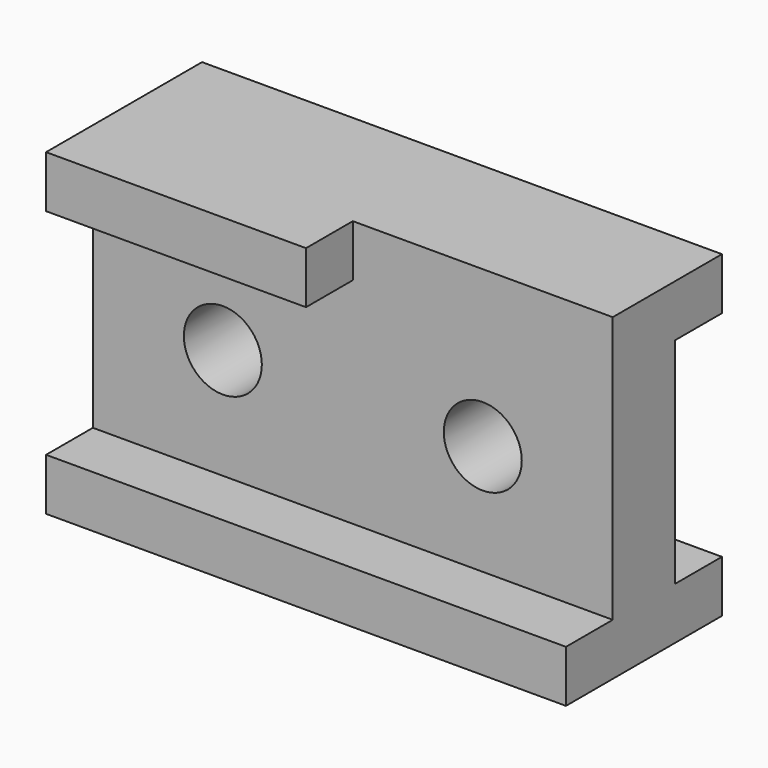
from build123d import *

# Parameters (mm, degrees)
F1_DEPTH = 254
F2_R     = 19.05
F3_DEPTH = 101.346
F2_W     = 127
F2_H     = 25.4
F4_DEPTH = 28.575


with BuildPart() as f1:
    # F0 (on Right) → F1 (new body)
    with BuildSketch(Plane.YZ):
        Polygon((0, 25.4), (0, 0), (95.25, 0), (95.25, 25.4), (66.675, 25.4), (66.675, 130.175), (95.25, 130.175), (95.25, 155.575), (28.575, 155.575), (28.575, 25.4), align=None)
    extrude(amount=F1_DEPTH)

    # F2 (on face) → F3 (cut)
    with BuildSketch(Plane.XZ.offset(-28.575)):
        with Locations((63.5, 79.375)):
            Circle(F2_R)
        with Locations((190.5, 79.375)):
            Circle(F2_R)
    extrude(amount=-F3_DEPTH, mode=Mode.SUBTRACT)

    # F2 (on face) → F4 (join, through all)
    with BuildSketch(Plane.XZ.offset(-28.575)):
        with Locations((63.5, 142.875)):
            Rectangle(F2_W, F2_H)
    extrude(amount=F4_DEPTH)


solid = f1.part
